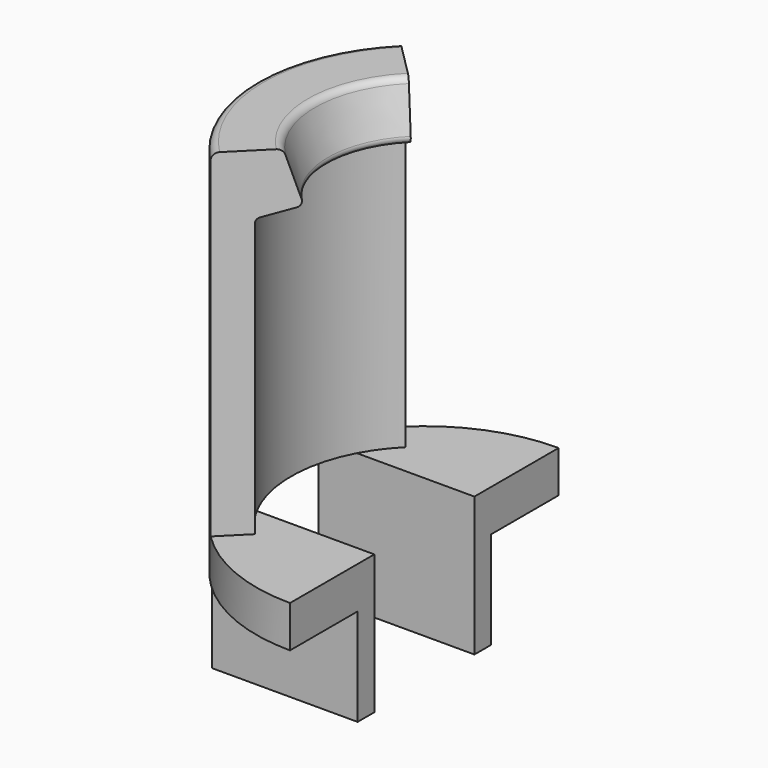
from build123d import *

# Parameters (mm, degrees)
REVOLUTION001_ANGLE = 90
PAD_DEPTH           = 20
SKETCH003_W         = 14
SKETCH003_H         = 12.160038
POCKET_DEPTH        = 24.1610380001
SKETCH004_R         = 2
POCKET001_DEPTH     = 54.611
SKETCH007_W         = 25
SKETCH007_H         = 18
POCKET002_DEPTH     = 20


with BuildPart() as part:
    # Sketch001 → Revolution001 (revolve, symmetric)
    with BuildSketch(Plane.XZ) as revolution001_sk:
        with BuildLine():
            Line((-13.8660806584, 42.1124829734), (-15.7024671828, 47.8455523549))
            ThreePointArc((-15.7024671828, 47.8455523549), (-16.1016197671, 48.3985683965), (-16.750038, 48.61))
            Line((-16.750038, 48.61), (-23.140038, 48.61))
            ThreePointArc((-23.140038, 48.61), (-23.8612869168, 48.3112489168), (-24.160038, 47.59))
            Line((-24.160038, 47.59), (-24.160038, 0))
            Line((-24.160038, 0), (-19.160038, 0))
            Line((-19.160038, 0), (-19.160038, 39.34))
            ThreePointArc((-18.5753612917, 40.0873655582), (-18.9965027288, 39.8144476079), (-19.160038, 39.34))
            Line((-18.5753612917, 40.0873655582), (-14.4211735138, 41.1174742446))
            ThreePointArc((-14.4211735138, 41.1174742446), (-13.9277334111, 41.4945364128), (-13.8660806584, 42.1124829734))
        make_face()
    revolve(axis=Axis((0, 0, 0), (0, 0, 1)), revolution_arc=REVOLUTION001_ANGLE / 2)
    revolve(revolution001_sk.sketch, axis=Axis((0, 0, 0), (0, 0, -1)), revolution_arc=REVOLUTION001_ANGLE / 2)

    # Sketch002 (on Face8 of Revolution001) → Pad (new body)
    with BuildSketch(Plane(origin=(0, 0, 0), x_dir=(1, 0, 0), z_dir=(0, 0, -1))):
        with BuildLine():
            ThreePointArc((0, 24.160038), (-24.160038, 0), (0, -24.160038))
            Line((0, -9), (0, -24.160038))
            ThreePointArc((0, 9), (-9, 0), (0, -9))
            Line((0, 24.160038), (0, 9))
        make_face()
    extrude(amount=PAD_DEPTH)

    # Sketch003 (on Face13 of Pad) → Pocket (cut, through all)
    with BuildSketch(Plane(origin=(0, 0, 0), x_dir=(0, 0, 1), z_dir=(1, 0, 0))):
        with Locations((-13, 18.080019)):
            Rectangle(SKETCH003_W, SKETCH003_H)
        with Locations((-13, -18.080019)):
            Rectangle(SKETCH003_W, SKETCH003_H)
    extrude(amount=-POCKET_DEPTH, mode=Mode.SUBTRACT)

    # Sketch004 (on Face20 of Pocket) → Pocket001 (cut, through all)
    with BuildSketch(Plane(origin=(0, 0, -6), x_dir=(1, 0, 0), z_dir=(0, 0, -1))):
        with Locations((-10, -5)):
            Circle(SKETCH004_R)
    extrude(amount=-POCKET001_DEPTH, mode=Mode.SUBTRACT)

    # Sketch007 (on Face18 of Pocket001) → Pocket002 (cut)
    with BuildSketch(Plane(origin=(0, 0, -20), x_dir=(1, 0, 0), z_dir=(0, 0, -1))):
        with Locations((-12.5, 0)):
            Rectangle(SKETCH007_W, SKETCH007_H)
    extrude(amount=-POCKET002_DEPTH, mode=Mode.SUBTRACT)


solid = part.part
